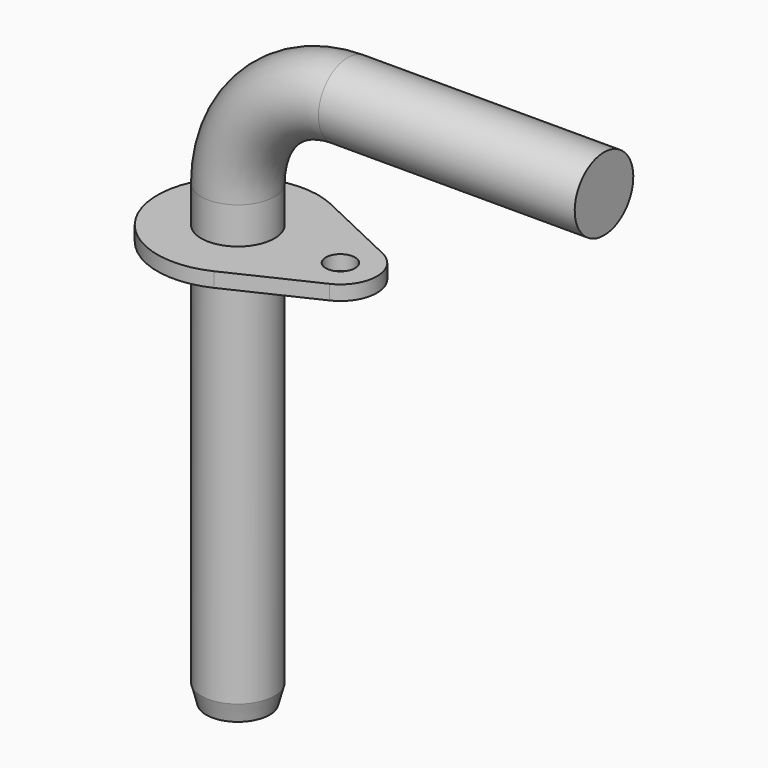
from build123d import *

# Parameters (mm, degrees)
F1_R     = 10
F3_SIZE2 = 1.3397459622
F3_SIZE  = 5
F5_R     = 10
F6_DEPTH = 4
F7_D     = 8


with BuildPart() as f2:
    # F2: sweep along a path in F0
    with BuildLine(Plane.XZ) as f2_path:
        Line((0, 0), (0, 125))
        ThreePointArc((0, 125), (8.7867965644, 146.2132034356), (30, 155))
        Line((30, 155), (100, 155))
    # F1 (on Top) → F2 (sweep)
    with BuildSketch(Plane.XY):
        Circle(F1_R)
    sweep(path=f2_path.line)

    # F3
    f3_edges = [f2.edges().sort_by_distance(p)[0] for p in [
        (-10, 0, 0),
    ]]
    chamfer(f3_edges, length=F3_SIZE, length2=F3_SIZE2)


with BuildPart() as f6:
    # F5 (on offset) → F6 (new body)
    with BuildSketch(Plane.XY.offset(111)):
        with BuildLine():
            Line((32.2857142857, 9.0350790291), (9.4285714286, 19.8771738639))
            ThreePointArc((9.4285714286, 19.8771738639), (-22, 0), (9.4285714286, -19.8771738639))
            Line((9.4285714286, -19.8771738639), (32.2857142857, -9.0350790291))
            ThreePointArc((32.2857142857, -9.0350790291), (38, 0), (32.2857142857, 9.0350790291))
        make_face()
        Circle(F5_R, mode=Mode.SUBTRACT)
    extrude(amount=F6_DEPTH)

    # F7 (through all)
    with Locations(Plane(origin=(0, 0, 111), x_dir=(1, 0, 0), z_dir=(0, 0, -1))):
        with Locations((28, 0)):
            Hole(F7_D / 2)


solid = Compound([f2.part, f6.part])
